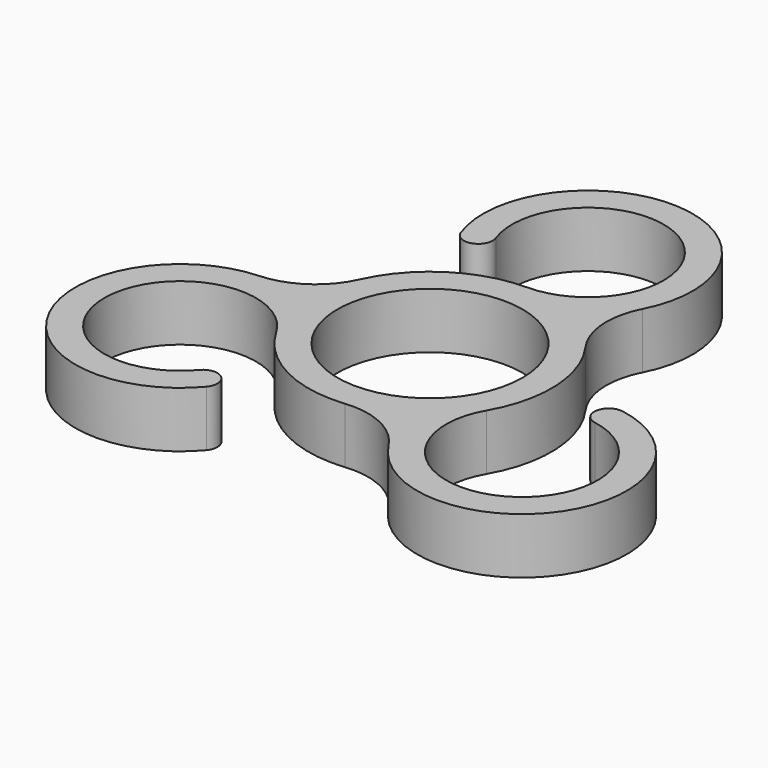
from build123d import *

# Parameters (mm, degrees)
F0_R     = 8
F1_DEPTH = 4.83


with BuildPart() as f1:
    # F0 (on Top) → F1 (new body)
    with BuildSketch(Plane.XY):
        with BuildLine():
            ThreePointArc((-6.154987, 14.809768), (3.756926, 22.415446), (0, 10.5))
            ThreePointArc((0, 10.5), (-5.692087, 8.823273), (-9.566255, 4.328598))
            ThreePointArc((-9.566255, 4.328598), (-11.838577, 1.629537), (-15.186217, 0.515226))
            ThreePointArc((-15.186217, 0.515226), (-22.876728, -12.539258), (-7.833031, -14.342228))
            ThreePointArc((-7.833031, -14.342228), (-7.987102, -12.581188), (-9.748142, -12.735259))
            ThreePointArc((-9.748142, -12.735259), (-21.290808, -7.95413), (-9.093267, -5.25))
            ThreePointArc((-9.093267, -5.25), (-4.795135, -9.341129), (1.034452, -10.448919))
            ThreePointArc((1.034452, -10.448919), (4.508068, -11.067277), (7.14691, -13.409263))
            ThreePointArc((7.14691, -13.409263), (22.29768, -13.542198), (16.337249, 0.38751))
            ThreePointArc((16.337249, 0.38751), (14.889179, -0.626439), (15.903129, -2.074509))
            ThreePointArc((15.903129, -2.074509), (17.533883, -14.461316), (9.093267, -5.25))
            ThreePointArc((9.093267, -5.25), (10.487222, 0.517856), (8.531804, 6.120321))
            ThreePointArc((8.531804, 6.120321), (7.330509, 9.43774), (8.039308, 12.894037))
            ThreePointArc((8.039308, 12.894037), (0.579048, 26.081456), (-8.504218, 13.954718))
            ThreePointArc((-8.504218, 13.954718), (-6.902077, 13.207627), (-6.154987, 14.809768))
        make_face()
        Circle(F0_R, mode=Mode.SUBTRACT)
    extrude(amount=F1_DEPTH)


solid = f1.part
